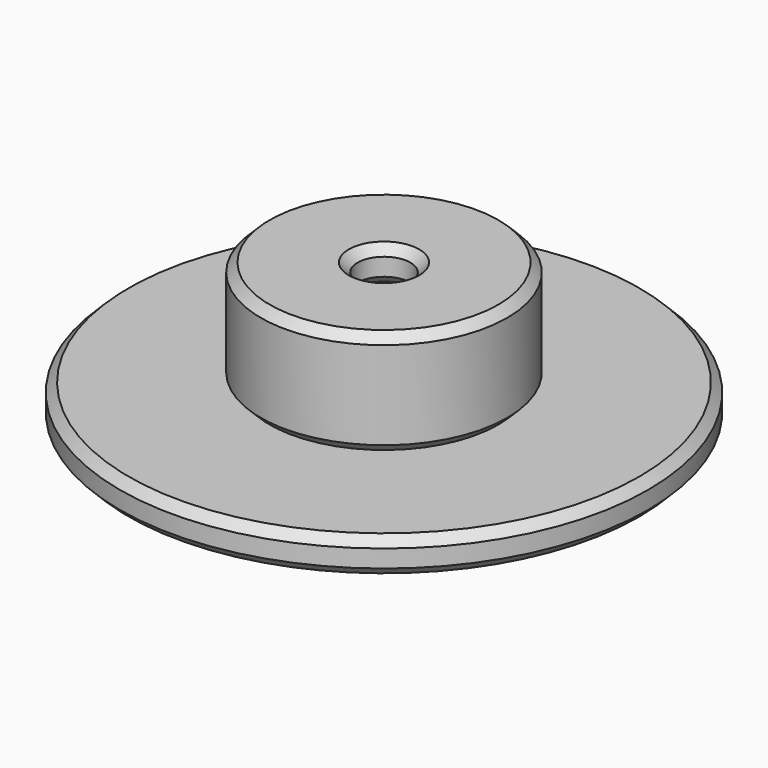
from build123d import *

# Parameters (mm, degrees)
SKETCH_R             = 15
PAD_DEPTH            = 2
SKETCH001_R          = 3.75
PAD001_DEPTH         = 2
SKETCH002_R          = 1.5
POCKET_DEPTH         = 2.001
POCKET_DEPTH_BACK    = -2.001
CHAMFER_SIZE         = 0.5
SKETCH003_R          = 7
PAD002_DEPTH         = 6
SKETCH004_R          = 5
POCKET001_DEPTH      = 4
SKETCH005_R          = 1.5
POCKET002_DEPTH      = 0.001
POCKET002_DEPTH_BACK = -6.001
CHAMFER001_SIZE      = 0.5


with BuildPart() as scheibe_oben:
    # Sketch → Pad (new body)
    with BuildSketch(Plane.XY):
        Circle(SKETCH_R)
    extrude(amount=-PAD_DEPTH)

    # Sketch001 → Pad001 (join)
    with BuildSketch(Plane.XY):
        Circle(SKETCH001_R)
    extrude(amount=PAD001_DEPTH)

    # Sketch002 → Pocket (cut, two sides)
    with BuildSketch(Plane.XY) as pocket_sk:
        Circle(SKETCH002_R)
    extrude(amount=-POCKET_DEPTH, mode=Mode.SUBTRACT)
    extrude(pocket_sk.sketch, amount=-POCKET_DEPTH_BACK, mode=Mode.SUBTRACT)

    # Chamfer
    chamfer_edges = [scheibe_oben.edges().sort_by_distance(p)[0] for p in [
        (-3.75, 0, 2),
        (-15, 0, 0),
        (-15, 0, -2),
        (-1.5, 0, 2),
        (-1.5, 0, -2),
    ]]
    chamfer(chamfer_edges, length=CHAMFER_SIZE)


with BuildPart() as obj1:
    # Sketch003 → Pad002 (new body)
    with BuildSketch(Plane.XY):
        Circle(SKETCH003_R)
    extrude(amount=PAD002_DEPTH)

    # Sketch004 → Pocket001 (cut)
    with BuildSketch(Plane.XY):
        Circle(SKETCH004_R)
    extrude(amount=POCKET001_DEPTH, mode=Mode.SUBTRACT)

    # Sketch005 → Pocket002 (cut, two sides)
    with BuildSketch(Plane.XY) as pocket002_sk:
        Circle(SKETCH005_R)
    extrude(amount=-POCKET002_DEPTH, mode=Mode.SUBTRACT)
    extrude(pocket002_sk.sketch, amount=-POCKET002_DEPTH_BACK, mode=Mode.SUBTRACT)

    # Chamfer001
    chamfer001_edges = [obj1.edges().sort_by_distance(p)[0] for p in [
        (-7, 0, 0),
        (-5, 0, 0),
        (-7, 0, 6),
        (-1.5, 0, 6),
        (-1.5, 0, 4),
    ]]
    chamfer(chamfer001_edges, length=CHAMFER001_SIZE)


solid = Compound([scheibe_oben.part, obj1.part])
